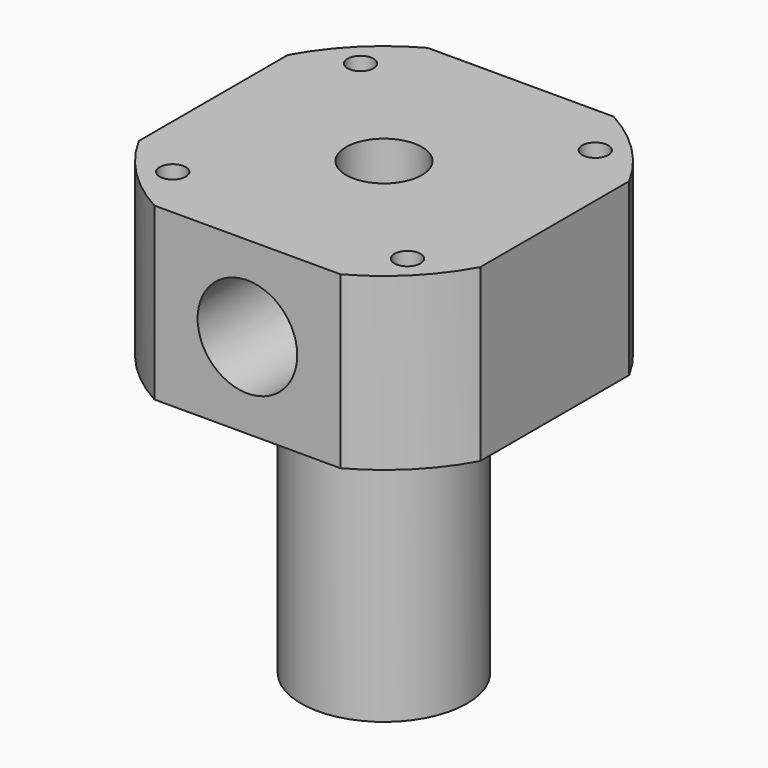
from build123d import *

# Parameters (mm, degrees)
F1_DEPTH = 36
F3_D     = 5.5
F3_DEPTH = 10
F3_TIP   = 1.6523667023
F5_R     = 17.5
F6_DEPTH = 59
F7_R     = 8
F8_DEPTH = 95.001
F10_D    = 21


with BuildPart() as f1:
    # F0 (on Top) → F1 (new body)
    with BuildSketch(Plane.XY):
        with BuildLine():
            Line((19.6214168703, 36), (-19.6214168703, 36))
            ThreePointArc((-19.6214168703, 36), (-28.9913780286, 28.9913780286), (-36, 19.6214168703))
            Line((-36, 19.6214168703), (-36, -19.6214168703))
            ThreePointArc((-36, -19.6214168703), (-28.9913780286, -28.9913780286), (-19.6214168703, -36))
            Line((-19.6214168703, -36), (19.6214168703, -36))
            ThreePointArc((19.6214168703, -36), (28.9913780286, -28.9913780286), (36, -19.6214168703))
            Line((36, -19.6214168703), (36, 19.6214168703))
            ThreePointArc((36, 19.6214168703), (28.9913780286, 28.9913780286), (19.6214168703, 36))
        make_face()
    extrude(amount=F1_DEPTH)

    # F3
    with Locations(Plane.XY.offset(36)):
        with Locations((-24.7487373415, 24.7487373415), (24.7487373415, 24.7487373415), (24.7487373415, -24.7487373415), (-24.7487373415, -24.7487373415)):
            Hole(F3_D / 2, depth=F3_DEPTH)
            with Locations((0, 0, -(F3_DEPTH + F3_TIP / 2))):  # 118° drill point
                Cone(0, F3_D / 2, F3_TIP, mode=Mode.SUBTRACT)

    # F5 (on face) → F6 (join)
    with BuildSketch(Plane(origin=(0, 0, 0), x_dir=(1, 0, 0), z_dir=(0, 0, -1))):
        Circle(F5_R)
    extrude(amount=F6_DEPTH)

    # F7 (on face) → F8 (cut, through all)
    with BuildSketch(Plane(origin=(0, 0, -59), x_dir=(1, 0, 0), z_dir=(0, 0, -1))):
        Circle(F7_R)
    extrude(amount=-F8_DEPTH, mode=Mode.SUBTRACT)

    # F10 (through all)
    with Locations(Plane(origin=(0, 36, 0), x_dir=(-1, 0, 0), z_dir=(0, 1, 0))):
        with Locations((0, 18)):
            Hole(F10_D / 2)


solid = f1.part
